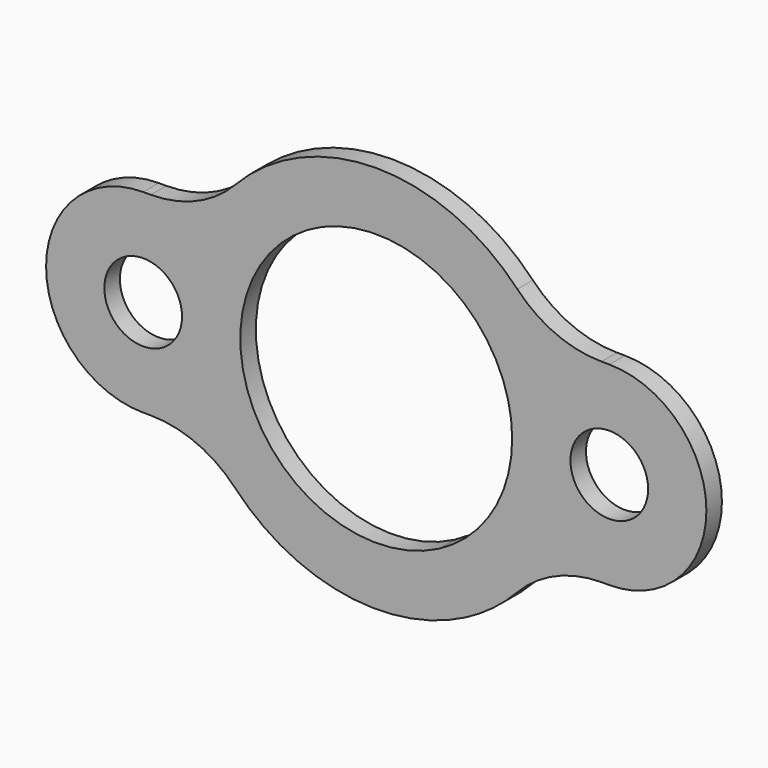
from build123d import *

# Parameters (mm, degrees)
F0_R     = 12.7
F1_DEPTH = 6.35


with BuildPart() as f1:
    # F0 (on Front) → F1 (new body)
    with BuildSketch(Plane.XZ):
        with BuildLine():
            ThreePointArc((-46.133021, -43.634784), (-10.551842, -62.617159), (29.285274, -56.343791))
            ThreePointArc((29.285274, -56.343791), (38.213631, -50.714578), (46.086216, -43.684216))
            ThreePointArc((46.086216, -43.684216), (58.688214, -34.893094), (73.737945, -31.794746))
            Line((73.737945, -31.794746), (76.2, -31.794746))
            ThreePointArc((76.2, -31.794746), (107.95, -0.044746), (76.2, 31.705254))
            Line((76.2, 31.705254), (73.652256, 31.715992))
            ThreePointArc((73.652256, 31.715992), (58.670634, 34.853907), (46.133021, 43.634784))
            ThreePointArc((46.133021, 43.634784), (0.034038, 63.499991), (-46.086216, 43.684216))
            ThreePointArc((-46.086216, 43.684216), (-58.688214, 34.893094), (-73.737945, 31.794746))
            Line((-73.737945, 31.794746), (-76.2, 31.794746))
            ThreePointArc((-76.2, 31.794746), (-107.95, 0.044746), (-76.2, -31.705254))
            Line((-76.2, -31.705254), (-73.652256, -31.715992))
            ThreePointArc((-73.652256, -31.715992), (-58.670634, -34.853907), (-46.133021, -43.634784))
        make_face()
        with Locations((76.2, -0.044746)):
            Circle(F0_R, mode=Mode.SUBTRACT)
        with Locations((-76.2, 0.044746)):
            Circle(F0_R, mode=Mode.SUBTRACT)
        with BuildLine():
            ThreePointArc((20.499692, -39.440653), (-37.993511, 23.071532), (44.45, 0))
            ThreePointArc((44.45, 0), (37.993511, -23.071532), (20.499692, -39.440653))
        make_face(mode=Mode.SUBTRACT)
    extrude(amount=F1_DEPTH)


solid = f1.part
